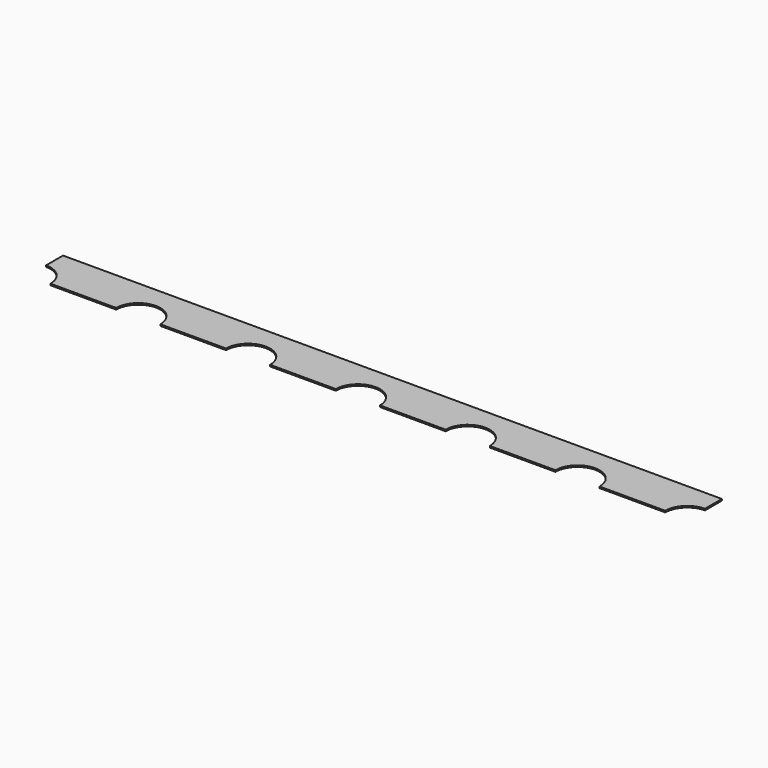
from build123d import *

# Parameters (mm, degrees)
SKETCH004_W             = 15.24
SKETCH004_H             = 1
PAD002_DEPTH            = 0.035
SKETCH005_R             = 0.51
POCKET002_DEPTH         = 0.036
LINEARPATTERN005_COUNT  = 7
LINEARPATTERN005_PITCH  = 2.54
BODY004_PLACEMENT_ANGLE = 180


with BuildPart() as part:
    # Sketch004 → Pad002 (new body)
    with BuildSketch(Plane.XY):
        with Locations((0, 7.12)):
            Rectangle(SKETCH004_W, SKETCH004_H)
    extrude(amount=-PAD002_DEPTH)

    # Sketch005 → Pocket002 (cut, through all)
    with BuildSketch(Plane.XY):
        with Locations((-7.62, 7.62)):
            Circle(SKETCH005_R)
    pocket002 = extrude(amount=-POCKET002_DEPTH, mode=Mode.SUBTRACT)

    # LinearPattern005: Pocket002 ×7
    with Locations(*[(i * LINEARPATTERN005_PITCH, 0, 0) for i in range(1, LINEARPATTERN005_COUNT)]):
        add(pocket002, mode=Mode.SUBTRACT)


with BuildPart() as part_1:
    # Body004 placement: moved
    add(part.part.rotate(Axis((0, 0, 0), (0, 0, 1)), BODY004_PLACEMENT_ANGLE))


solid = part_1.part
